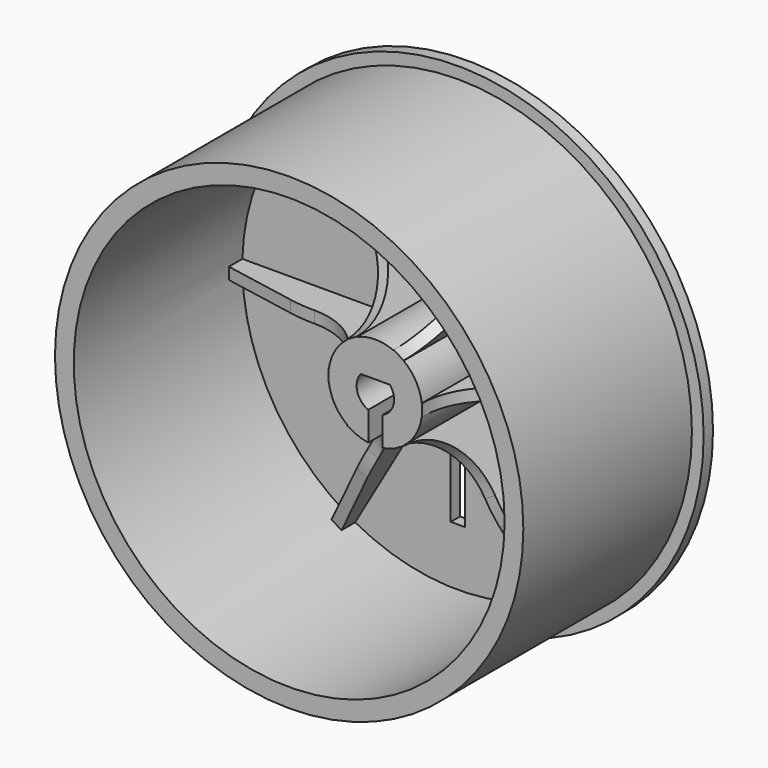
from build123d import *

# Parameters (mm, degrees)
PAD_START          = -51
SKETCH_R           = 20
SKETCH_R_2         = 18.4
PAD_DEPTH          = 18
SKETCH001_R        = 21
PAD001_DEPTH       = 1
SKETCH002_R        = 4
PAD002_DEPTH       = 8.8
POCKET_DEPTH       = 9.801
PAD003_DEPTH       = 0.5
PAD003_DEPTH_BACK  = 0.5
POLARPATTERN_COUNT = 6


with BuildPart() as part:
    # Sketch → Pad (new body)
    with BuildSketch(Plane.XZ.offset(PAD_START)):
        Circle(SKETCH_R)
        Circle(SKETCH_R_2, mode=Mode.SUBTRACT)
    extrude(amount=-PAD_DEPTH)

    # Sketch001 (on Face3 of Pad) → Pad001 (join)
    with BuildSketch(Plane(origin=(0, 69, 0), x_dir=(1, 0, 0), z_dir=(0, 1, 0))):
        Circle(SKETCH001_R)
    extrude(amount=PAD001_DEPTH)

    # Sketch002 (on Face7 of Pad001) → Pad002 (join)
    with BuildSketch(Plane.XZ.offset(-69)):
        Circle(SKETCH002_R)
    extrude(amount=PAD002_DEPTH)

    # Sketch003 (on Face9 of Pad002) → Pocket (cut, through all)
    with BuildSketch(Plane.XZ.offset(-60.2)):
        with BuildLine():
            ThreePointArc((-1.249, 1), (-1.548005, -0.404574), (-0.6, -1.48324))
            Line((-0.6, -1.48324), (-0.6, -13.48324))
            Line((-0.6, -13.48324), (0.6, -13.48324))
            Line((0.6, -13.48324), (0.6, -1.48324))
            ThreePointArc((0.6, -1.48324), (1.548005, -0.404574), (1.249, 1))
            Line((-1.249, 1), (1.249, 1))
        make_face()
    extrude(amount=-POCKET_DEPTH, mode=Mode.SUBTRACT)

    # Sketch004 → Pad003 (join, two sides)
    with BuildSketch(Plane.XY) as pad003_sk:
        with BuildLine():
            ThreePointArc((-4, 60.2), (-5.757359, 64.442641), (-10, 66.2))
            ThreePointArc((-12.196813, 66.402796), (-11.103077, 66.250807), (-10, 66.2))
            Line((-19.7, 67.8), (-12.196813, 66.402796))
            Line((-19.7, 69), (-19.7, 67.8))
            Line((-19.7, 69), (-3.5, 69))
            Line((-3.5, 69), (-3.5, 60.2))
            Line((-3.5, 60.2), (-4, 60.2))
        make_face()
    pad003 = extrude(amount=PAD003_DEPTH) + extrude(pad003_sk.sketch, amount=-PAD003_DEPTH_BACK)

    # PolarPattern: Pad003 ×6 about axis
    polarpattern_axis = Axis((0, 0, 0), (0, 1, 0))
    for i in range(1, POLARPATTERN_COUNT):
        add(pad003.rotate(polarpattern_axis, i * 360 / POLARPATTERN_COUNT))


solid = part.part
